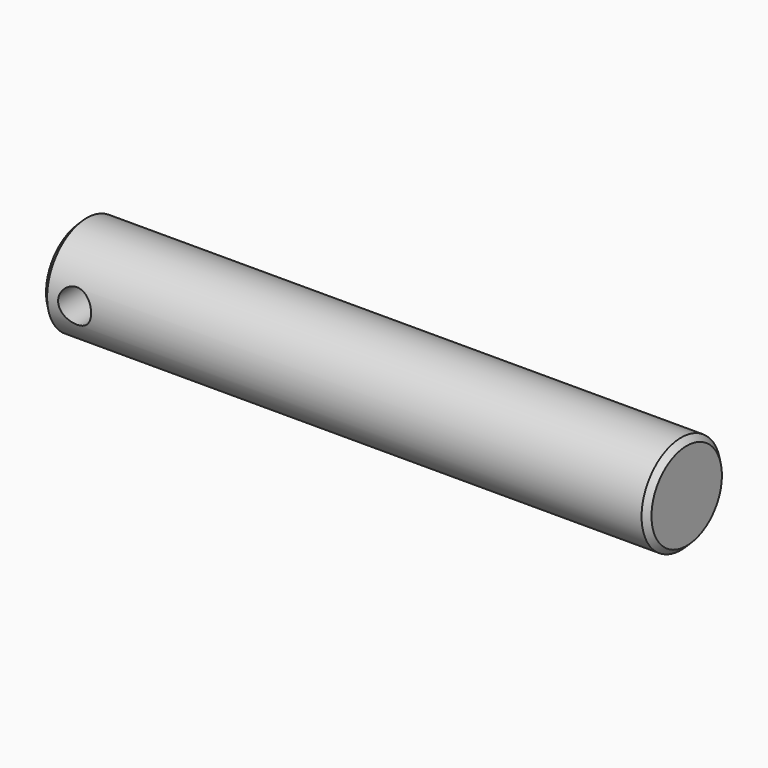
from build123d import *

# Parameters (mm, degrees)
F0_R     = 9
F1_DEPTH = 110
F2_SIZE  = 1
F3_R     = 3
F4_DEPTH = 9


with BuildPart() as f1:
    # F0 (on Right) → F1 (new body)
    with BuildSketch(Plane.YZ):
        Circle(F0_R)
    extrude(amount=F1_DEPTH)

    # F2
    f2_edges = [f1.edges().sort_by_distance(p)[0] for p in [
        (110, -9, 0),
        (0, -9, 0),
    ]]
    chamfer(f2_edges, length=F2_SIZE)

    # F3 (on Front) → F4 (cut, symmetric)
    with BuildSketch(Plane.XZ):
        with Locations((6, 0)):
            Circle(F3_R)
    extrude(amount=F4_DEPTH, both=True, mode=Mode.SUBTRACT)


solid = f1.part
